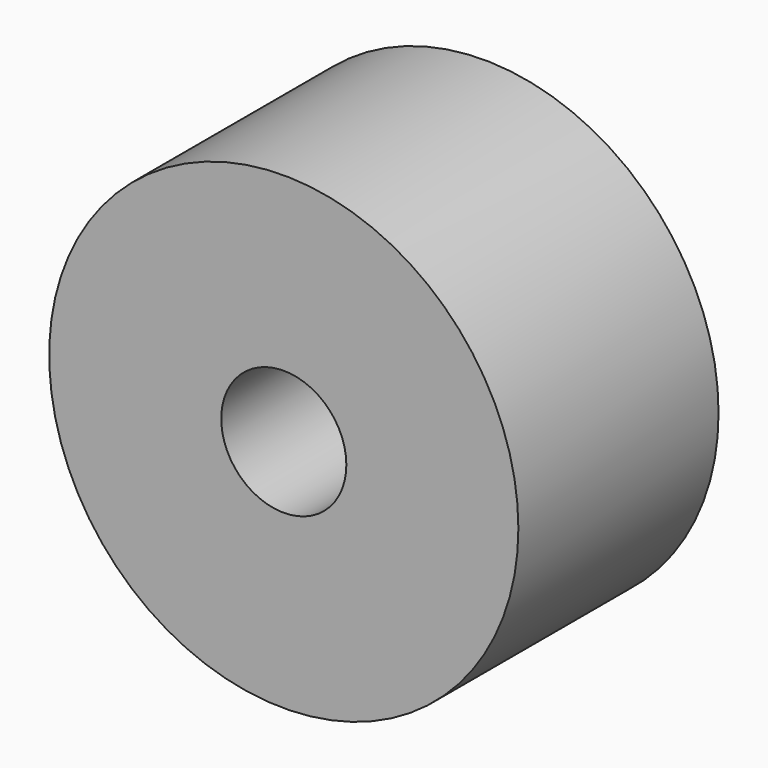
from build123d import *

# Parameters (mm, degrees)
F0_R     = 7.5
F2_DEPTH = 8
F1_R     = 2
F3_DEPTH = 8.001


with BuildPart() as f2:
    # F0 (on Front) → F2 (new body)
    with BuildSketch(Plane.XZ):
        Circle(F0_R)
    extrude(amount=F2_DEPTH)

    # F1 (on face) → F3 (cut, through all)
    with BuildSketch(Plane.XZ):
        Circle(F1_R)
    extrude(amount=F3_DEPTH, mode=Mode.SUBTRACT)


solid = f2.part
